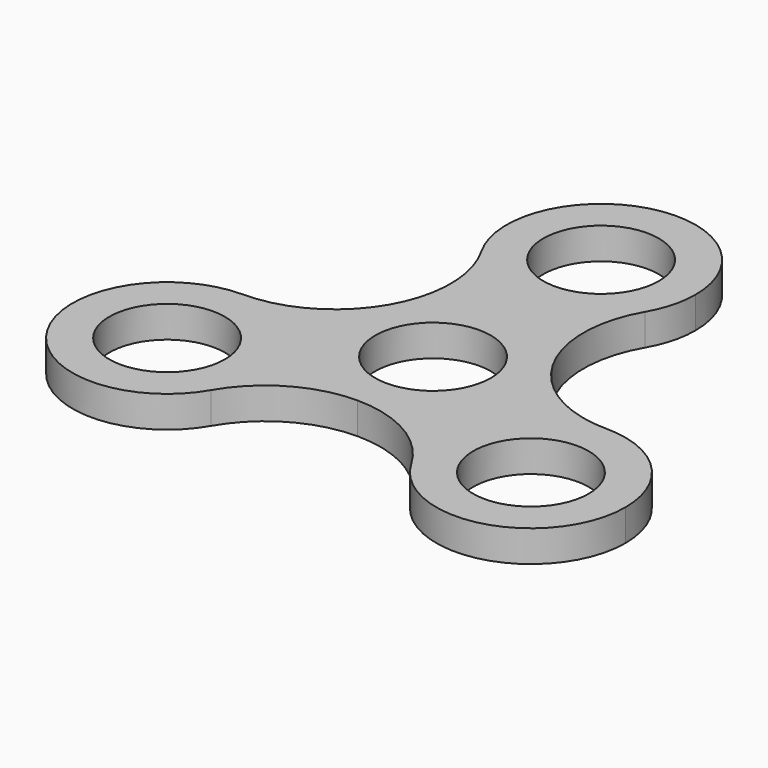
from build123d import *

# Parameters (mm, degrees)
F0_R     = 11
F1_DEPTH = 6


with BuildPart() as f1:
    # F0 (on Top) → F1 (new body)
    with BuildSketch(Plane.XY):
        with BuildLine():
            ThreePointArc((-16.6410161514, -20), (-21.91309409, -7.2720779386), (-34.6410161514, -2))
            ThreePointArc((-34.6410161514, -2), (-50.2294734195, -29), (-19.0525588833, -29))
            ThreePointArc((-19.0525588833, -29), (-17.2543512782, -24.6587428118), (-16.6410161514, -20))
        make_face()
        with Locations((-34.6410161514, -20)):
            Circle(F0_R, mode=Mode.SUBTRACT)
        with BuildLine():
            ThreePointArc((1.127e-07, -18), (-15.5884573786, -8.9999998087), (-15.5884569909, 9.0000004801))
            ThreePointArc((-15.5884569909, 9.0000004801), (-23.6410159113, 0.9474412553), (-34.6410161514, -2))
            ThreePointArc((-34.6410161514, -2), (-21.91309409, -7.2720779386), (-16.6410161514, -20))
            ThreePointArc((-16.6410161514, -20), (-17.2543512782, -24.6587428118), (-19.0525588833, -29))
            ThreePointArc((-19.0525588833, -29), (-10.9999999512, -20.9474410886), (1.127e-07, -18))
        make_face()
        with BuildLine():
            ThreePointArc((15.5884572681, 31), (0, 22), (-15.5884572681, 31))
            ThreePointArc((-15.5884572681, 31), (-12.6410161514, 20.0000002772), (-15.5884569909, 9.0000004801))
            ThreePointArc((-15.5884569909, 9.0000004801), (3.334e-07, 18), (15.5884573243, 8.9999999027))
            ThreePointArc((15.5884573243, 8.9999999027), (12.6410161514, 19.9999999438), (15.5884572681, 31))
        make_face()
        with BuildLine():
            ThreePointArc((15.5884572681, 31), (17.3866648732, 35.3412571882), (18, 40))
            ThreePointArc((18, 40), (-4.6587428118, 57.3866648732), (-15.5884572681, 31))
            ThreePointArc((-15.5884572681, 31), (0, 22), (15.5884572681, 31))
        make_face()
        with Locations((0, 40)):
            Circle(F0_R, mode=Mode.SUBTRACT)
        with BuildLine():
            ThreePointArc((52.6410161514, -20), (47.3689382127, -7.2720779386), (34.6410161514, -2))
            ThreePointArc((34.6410161514, -2), (19.0525588833, -11), (19.0525588833, -29))
            ThreePointArc((19.0525588833, -29), (39.2997589632, -37.3866648732), (52.6410161514, -20))
        make_face()
        with Locations((34.6410161514, -20)):
            Circle(F0_R, mode=Mode.SUBTRACT)
        with BuildLine():
            ThreePointArc((34.6410161514, -2), (23.6410162, 0.9474410887), (15.5884573243, 8.9999999027))
            ThreePointArc((15.5884573243, 8.9999999027), (17.3866648877, 4.6587427576), (18, 0))
            ThreePointArc((18, 0), (12.7279221012, -12.7279220215), (1.127e-07, -18))
            ThreePointArc((1.127e-07, -18), (11.0000000488, -20.9474411449), (19.0525588833, -29))
            ThreePointArc((19.0525588833, -29), (19.0525588833, -11), (34.6410161514, -2))
        make_face()
        with BuildLine():
            ThreePointArc((15.5884573243, 8.9999999027), (3.334e-07, 18), (-15.5884569909, 9.0000004801))
            ThreePointArc((-15.5884569909, 9.0000004801), (-15.5884573786, -8.9999998087), (1.127e-07, -18))
            ThreePointArc((1.127e-07, -18), (12.7279221012, -12.7279220215), (18, 0))
            ThreePointArc((18, 0), (17.3866648877, 4.6587427576), (15.5884573243, 8.9999999027))
        make_face()
        Circle(F0_R, mode=Mode.SUBTRACT)
    extrude(amount=F1_DEPTH)


solid = f1.part
